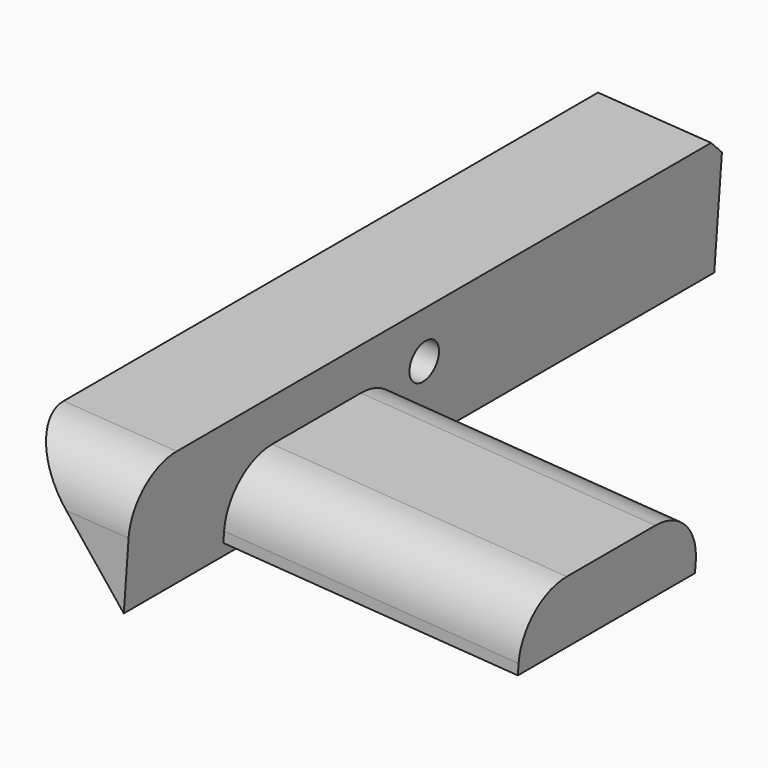
from build123d import *

# Parameters (mm, degrees)
F1_DEPTH = 254
F2_R     = 6.35
F3_DEPTH = 39.0204481418
F4_W     = 76.2
F4_H     = 22.7825300816
F5_DEPTH = 101.6
F9_R     = 19.05
F10_SIZE = 5.08


with BuildPart() as f1:
    # F0 (on Front) → F1 (new body)
    with BuildSketch(Plane.XZ):
        Polygon((-19.1467776895, 28.3457897604), (16.7935416102, -16.5796130896), (19.7885707021, 25.7786232978), align=None)
    extrude(amount=F1_DEPTH)

    # F2 (on face) → F3 (cut, through all)
    with BuildSketch(Plane(origin=(17.876465035, 0, -1.263993438), x_dir=(0, 1, 0), z_dir=(0.9975095855, 0, -0.0705310344))):
        with Locations((-127, 10.0461428802)):
            Circle(F2_R)
    extrude(amount=-F3_DEPTH, mode=Mode.SUBTRACT)

    # F4 (on face) → F5 (join)
    with BuildSketch(Plane(origin=(17.876465035, 0, -1.263993438), x_dir=(0, 1, 0), z_dir=(0.9975095855, 0, -0.0705310344))):
        with Locations((-173.4407693148, 0.2275721636)):
            Rectangle(F4_W, F4_H)
    extrude(amount=F5_DEPTH)

    # F7 (on offset) → F8 (revolve, cut)
    with BuildSketch(Plane(origin=(0, -186.1407693148, 0), x_dir=(-1, 0, 0), z_dir=(0, 1, 0))):
        Polygon((-91.9674258711, 0), (-91.5099222483, -6.4704034611), (-39.0226445365, -2.7591789837), (-41.141692549, 6.2215458602), (-67.5091892481, 0), align=None)
    revolve(axis=Axis((56.3993897732, -186.1407693148, -3.9878386717), (0.9975095855, 0, -0.0705310344)), mode=Mode.SUBTRACT)

    # F9
    f9_edges = [f1.edges().sort_by_distance(p)[0] for p in [
        (69.369441, -135.340769, 6.742931),
        (69.369441, -211.540769, 6.742931),
        (0.320897, -254, 27.062207),
    ]]
    fillet(f9_edges, radius=F9_R)

    # F10
    f10_edges = [f1.edges().sort_by_distance(p)[0] for p in [
        (0.320897, 0, 27.062207),
    ]]
    chamfer(f10_edges, length=F10_SIZE)


solid = f1.part
